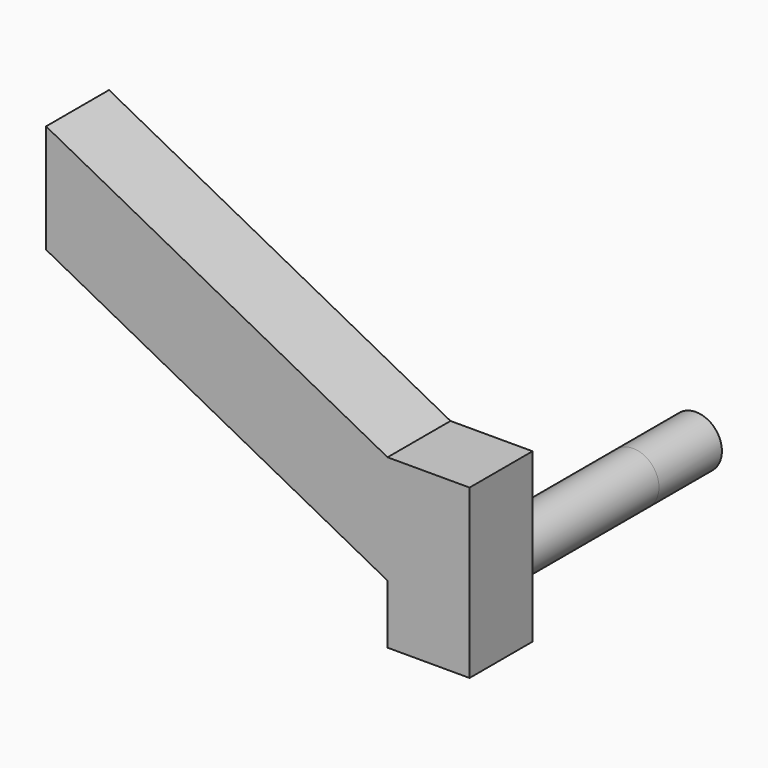
from build123d import *

# Parameters (mm, degrees)
F0_R     = 8.25
F1_DEPTH = 56.2
F3_DEPTH = 25
F4_DEPTH = 25
F6_DEPTH = 25
F7_DEPTH = 10.5
F8_DEPTH = 25
F9_DEPTH = 25


with BuildPart() as f1:
    # F0 (on Front) → F1 (new body)
    with BuildSketch(Plane.XZ):
        Circle(F0_R)
    extrude(amount=F1_DEPTH)

    # F2 (on face) → F3 (join)
    with BuildSketch(Plane.XZ.offset(56.2)):
        with BuildLine():
            Line((-13.0284968764, -8.25), (0, -8.25))
            ThreePointArc((0, -8.25), (-8.25, 0), (0, 8.25))
            Line((0, 8.25), (0, 34.5139689744))
            Line((0, 34.5139689744), (-13.0284968764, 34.5139689744))
            Line((-13.0284968764, 34.5139689744), (-13.0284968764, -8.25))
        make_face()
    extrude(amount=F3_DEPTH)

    # F2 (on face) → F4 (join)
    with BuildSketch(Plane.XZ.offset(56.2)):
        with BuildLine():
            ThreePointArc((8.25, 0), (5.8336309448, -5.8336309448), (0, -8.25))
            Line((0, -8.25), (13.0284968764, -8.25))
            Line((13.0284968764, -8.25), (13.0284968764, 34.5139689744))
            Line((13.0284968764, 34.5139689744), (0, 34.5139689744))
            Line((0, 34.5139689744), (0, 8.25))
            ThreePointArc((0, 8.25), (5.8336309448, 5.8336309448), (8.25, 0))
        make_face()
    extrude(amount=F4_DEPTH)

    # F5 (on face) → F6 (join)
    with BuildSketch(Plane.XZ.offset(81.2)):
        Polygon((-13.0284968764, 0), (-13.0284968764, 34.5139689744), (-121.5313971043, 91.8013229966), (-121.5313971043, 57.2873540223), align=None)
    extrude(amount=-F6_DEPTH)

    # F7 (add): faces of the model
    f7_faces = [f1.faces().sort_by_distance(p)[0] for p in [
        (-6.5142484382, -68.7, -8.25),
        (6.5142484382, -68.7, -8.25),
    ]]
    extrude(f7_faces, amount=F7_DEPTH)

    # F8 (add): a face of the model
    f8_faces = [f1.faces().sort_by_distance(p)[0] for p in [
        (0, -56.2, 0),
    ]]
    extrude(f8_faces, amount=F8_DEPTH)

    # F9 (add): a face of the model
    f9_faces = [f1.faces().sort_by_distance(p)[0] for p in [
        (0, 0, 0),
    ]]
    extrude(f9_faces, amount=F9_DEPTH)


solid = f1.part
